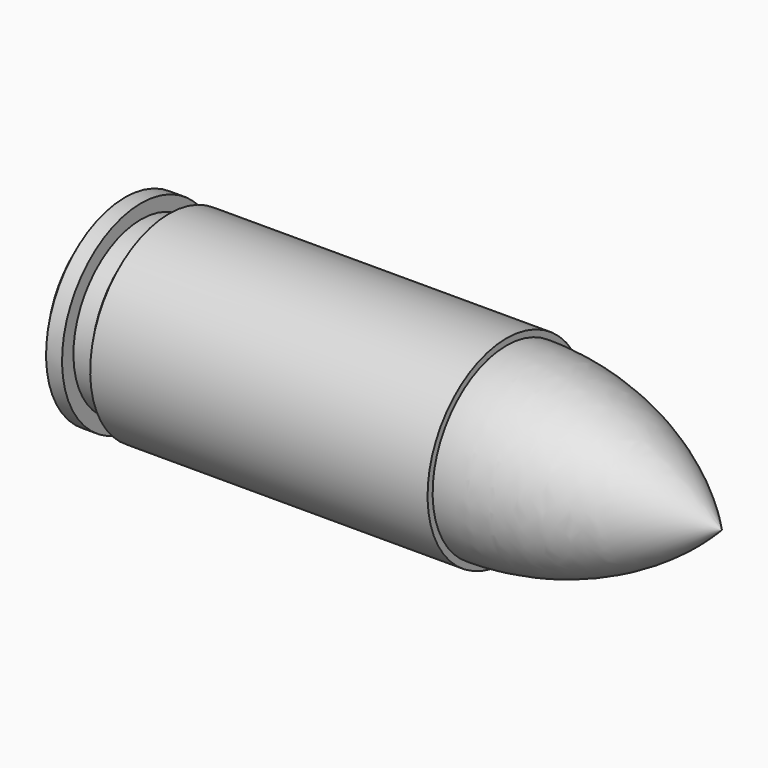
from build123d import *

# Parameters (mm, degrees)
F0_W = 0.89
F0_H = 4.13


with BuildPart() as f1:
    # F0 (on Front) → F1 (revolve)
    with BuildSketch(Plane.XZ):
        with BuildLine():
            Line((19.15, 4.515), (19.15, 0))
            Line((19.15, 0), (29.69, 0))
            ThreePointArc((29.69, 0), (24.883167, 3.338736), (19.15, 4.515))
        make_face()
        Polygon((2.647344, 4.826), (2.16, 4.13), (2.16, 0), (19.15, 0), (19.15, 4.515), (19.15, 4.826), align=None)
        with Locations((1.715, 2.065)):
            Rectangle(F0_W, F0_H)
        Polygon((1.27, 4.13), (1.27, 4.826), (0.487344, 4.826), (0, 4.13), (0, 0), (1.27, 0), align=None)
    revolve(axis=Axis((10.655, 0, 0), (-1, 0, 0)))


solid = f1.part
